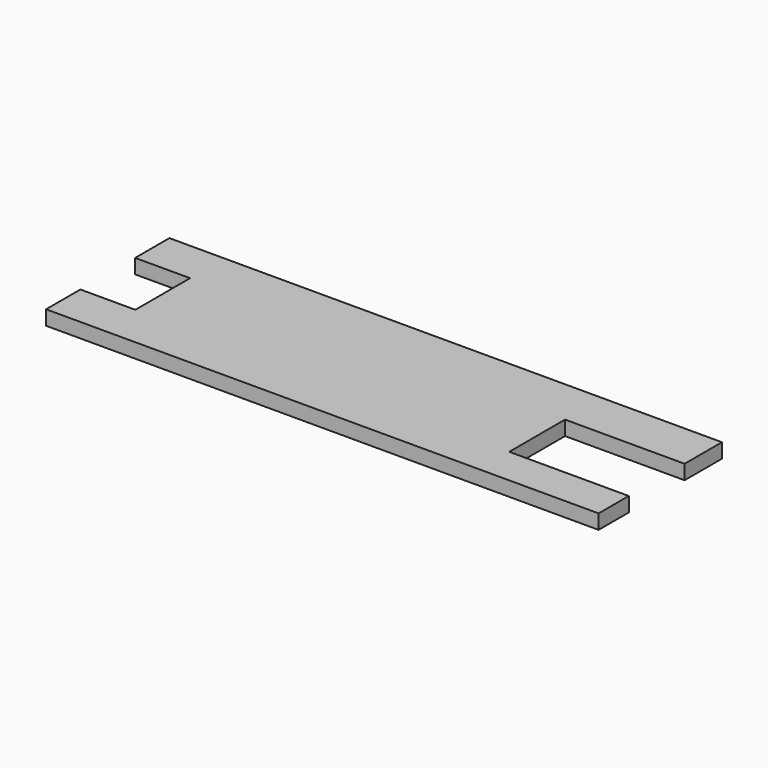
from build123d import *

# Parameters (mm, degrees)
F1_DEPTH = 5
F0_W     = 41.110674
F0_H     = 23.991064
F2_DEPTH = 25
F3_DEPTH = 25


with BuildPart() as f1:
    # F0 (on Top) → F1 (new body)
    with BuildSketch(Plane.XY):
        Polygon((96.131777, 26.425483), (-93.868223, 26.425483), (-93.868223, 11.705574), (-74.966818, 11.705574), (-74.966818, -11.828702), (-93.868223, -11.828702), (-93.868223, -14.370874), (-93.868223, -26.574517), (96.131777, -26.574517), (96.131777, -13.606817), (55.021103, -13.606817), (55.021103, 10.384247), (96.131777, 10.384247), align=None)
    extrude(amount=F1_DEPTH)

    # F0 (on Top) → F2 (cut)
    with BuildSketch(Plane.XY):
        Polygon((96.131777, 26.425483), (-93.868223, 26.425483), (-93.868223, 11.705574), (-74.966818, 11.705574), (-74.966818, -11.828702), (-93.868223, -11.828702), (-93.868223, -14.370874), (-93.868223, -26.574517), (96.131777, -26.574517), (96.131777, -13.606817), (55.021103, -13.606817), (55.021103, 10.384247), (96.131777, 10.384247), align=None)
        Polygon((-74.966818, 11.705574), (-93.868223, 11.705574), (-93.868223, -0.074517), (-93.868223, -11.828702), (-74.966818, -11.828702), align=None)
        with Locations((75.57644, -1.611285)):
            Rectangle(F0_W, F0_H)
    extrude(amount=-F2_DEPTH, mode=Mode.SUBTRACT)

    # F0 (on Top) → F3 (cut)
    with BuildSketch(Plane.XY):
        Polygon((96.131777, 26.425483), (-93.868223, 26.425483), (-93.868223, 11.705574), (-74.966818, 11.705574), (-74.966818, -11.828702), (-93.868223, -11.828702), (-93.868223, -14.370874), (-93.868223, -26.574517), (96.131777, -26.574517), (96.131777, -13.606817), (55.021103, -13.606817), (55.021103, 10.384247), (96.131777, 10.384247), align=None)
        Polygon((-74.966818, 11.705574), (-93.868223, 11.705574), (-93.868223, -0.074517), (-93.868223, -11.828702), (-74.966818, -11.828702), align=None)
        with Locations((75.57644, -1.611285)):
            Rectangle(F0_W, F0_H)
    extrude(amount=-F3_DEPTH, mode=Mode.SUBTRACT)


solid = f1.part
